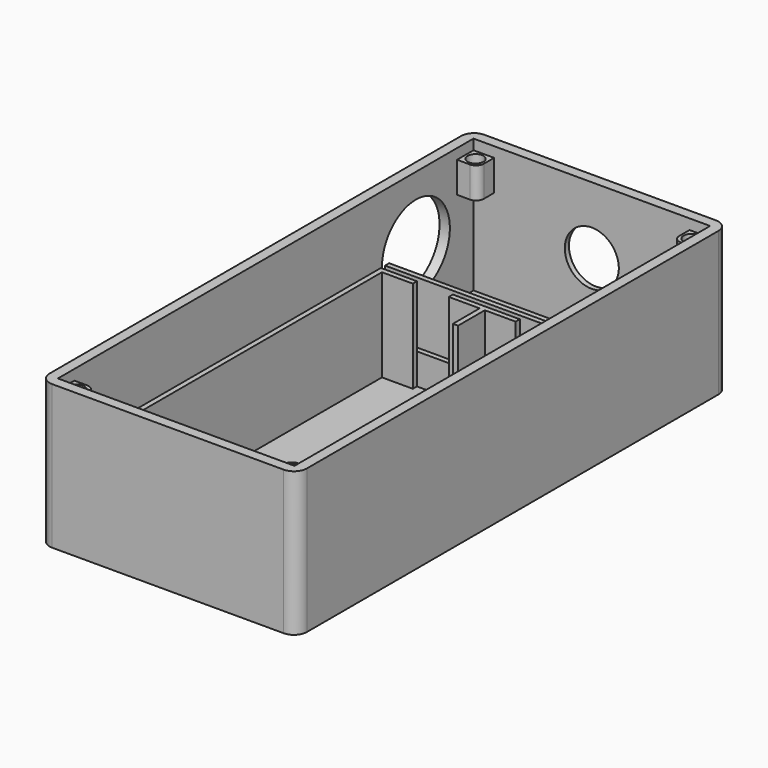
from build123d import *

# Parameters (mm, degrees)
F3_W      = 50
F3_H      = 105
F4_DEPTH  = 2
F5_W      = 50
F5_H      = 105
F5_W_2    = 46
F5_H_2    = 101
F6_DEPTH  = 26
F7_R      = 2.5
F8_R      = 8.25
F9_DEPTH  = 2
F10_R     = 5.25
F11_DEPTH = 2
F13_W     = 6
F13_H     = 1
F13_W_2   = 1
F13_H_2   = 6.5
F13_H_3   = 68
F13_W_3   = 40
F14_DEPTH = 18
F15_W     = 40
F15_H     = 1
F16_DEPTH = 6
F18_DEPTH = 6
F19_R     = 1.55
F20_DEPTH = 2.2
F12_R     = 11
F21_DEPTH = 1


with BuildPart() as f4:
    # F3 (on Top) → F4 (new body)
    with BuildSketch(Plane.XY):
        Rectangle(F3_W, F3_H)
    extrude(amount=F4_DEPTH)

    # F5 (on face) → F6 (join)
    with BuildSketch(Plane.XY.offset(2)):
        Rectangle(F5_W, F5_H)
        Rectangle(F5_W_2, F5_H_2, mode=Mode.SUBTRACT)
    extrude(amount=F6_DEPTH)

    # F7
    f7_edges = [f4.edges().sort_by_distance(p)[0] for p in [
        (-25, 52.5, 14),
        (25, 52.5, 14),
        (25, -52.5, 14),
        (-25, -52.5, 14),
    ]]
    fillet(f7_edges, radius=F7_R)

    # F8 (on face) → F9 (cut)
    with BuildSketch(Plane(origin=(-25, 0, 0), x_dir=(0, -1, 0), z_dir=(-1, 0, 0))):
        with Locations((-36.5, 15)):
            Circle(F8_R)
    extrude(amount=-F9_DEPTH, mode=Mode.SUBTRACT)

    # F10 (on face) → F11 (cut)
    with BuildSketch(Plane(origin=(0, 52.5, 0), x_dir=(-1, 0, 0), z_dir=(0, 1, 0))):
        with Locations((0, 15)):
            Circle(F10_R)
    extrude(amount=-F11_DEPTH, mode=Mode.SUBTRACT)

    # F13 (on face) → F14 (join)
    with BuildSketch(Plane.XY.offset(2)):
        with Locations((20, 20)):
            Rectangle(F13_W, F13_H)
        with Locations((20, -49)):
            Rectangle(F13_W, F13_H)
        Polygon((10, 20.5), (-3, 20.5), (-3, 19.5), (3, 19.5), (4, 19.5), (10, 19.5), align=None)
        with Locations((3.5, 16.25)):
            Rectangle(F13_W_2, F13_H_2)
        Polygon((-3, -48.5), (-3, -49.5), (10, -49.5), (10, -48.5), (4, -48.5), (3, -48.5), align=None)
        with Locations((3.5, -45.25)):
            Rectangle(F13_W_2, F13_H_2)
        Polygon((-10, 19.5), (-10, 20.5), (-17, 20.5), (-17, 19.5), (-16, 19.5), align=None)
        with Locations((-16.5, -14.5)):
            Rectangle(F13_W_2, F13_H_3)
        Polygon((-16, -48.5), (-17, -48.5), (-17, -49.5), (-10, -49.5), (-10, -48.5), align=None)
        with Locations((3, 22)):
            Rectangle(F13_W_3, F13_H)
    extrude(amount=F14_DEPTH)

    # F15 (on face) → F16 (join)
    with BuildSketch(Plane.XY.offset(2)):
        with Locations((3, 21)):
            Rectangle(F15_W, F15_H)
        with Locations((3, -50)):
            Rectangle(F15_W, F15_H)
    extrude(amount=F16_DEPTH)

    # F17 (on face) → F18 (join)
    with BuildSketch(Plane.XY.offset(20)):
        with BuildLine():
            Line((-23, 46.5), (-20.5, 46.5))
            ThreePointArc((-20.5, 46.5), (-19.4393398282, 46.9393398282), (-19, 48))
            Line((-19, 48), (-19, 50.5))
            Line((-19, 50.5), (-23, 50.5))
            Line((-23, 50.5), (-23, 46.5))
        make_face()
        with BuildLine():
            ThreePointArc((19, 48), (19.4393398282, 46.9393398282), (20.5, 46.5))
            Line((20.5, 46.5), (23, 46.5))
            Line((23, 46.5), (23, 50.5))
            Line((23, 50.5), (19, 50.5))
            Line((19, 50.5), (19, 48))
        make_face()
        with BuildLine():
            ThreePointArc((20.5, -46.5), (19.4393398282, -46.9393398282), (19, -48))
            Line((19, -48), (19, -50.5))
            Line((19, -50.5), (23, -50.5))
            Line((23, -50.5), (23, -46.5))
            Line((23, -46.5), (20.5, -46.5))
        make_face()
        with BuildLine():
            ThreePointArc((-19, -48), (-19.4393398282, -46.9393398282), (-20.5, -46.5))
            Line((-20.5, -46.5), (-23, -46.5))
            Line((-23, -46.5), (-23, -50.5))
            Line((-23, -50.5), (-19, -50.5))
            Line((-19, -50.5), (-19, -48))
        make_face()
    extrude(amount=F18_DEPTH)

    # F19 (on face) → F20 (cut)
    with BuildSketch(Plane.XY.offset(26)):
        with Locations((-21, 48.5)):
            Circle(F19_R)
        with Locations((21, 48.5)):
            Circle(F19_R)
        with Locations((-21, -48.5)):
            Circle(F19_R)
        with Locations((21, -48.5)):
            Circle(F19_R)
    extrude(amount=-F20_DEPTH, mode=Mode.SUBTRACT)

    # F12 (on face) → F21 (cut)
    with BuildSketch(Plane(origin=(0, 52.5, 0), x_dir=(-1, 0, 0), z_dir=(0, 1, 0))):
        with Locations((0, 15)):
            Circle(F12_R)
    extrude(amount=-F21_DEPTH, mode=Mode.SUBTRACT)


solid = f4.part
